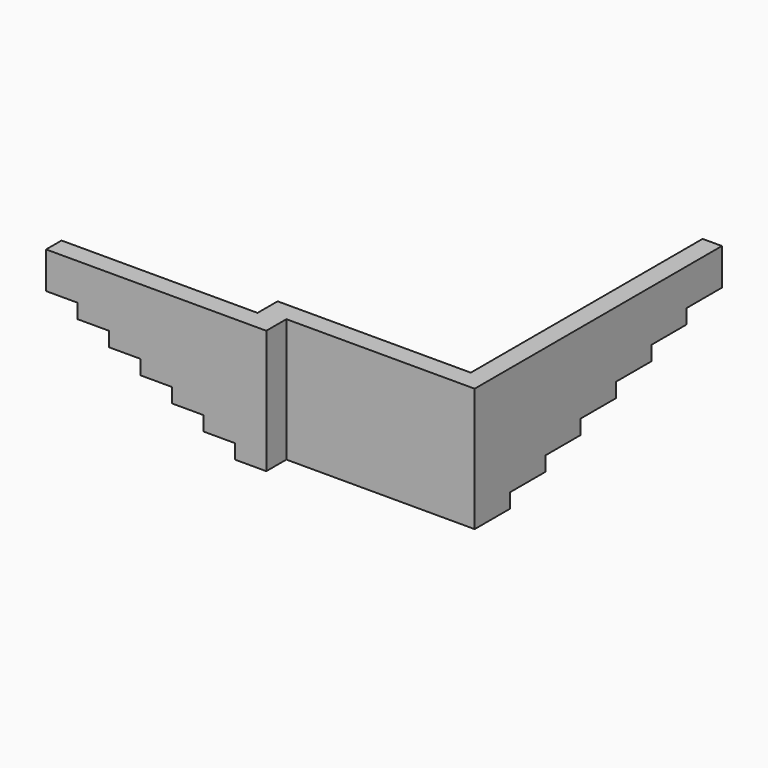
from build123d import *

# Parameters (mm, degrees)
F0_W     = 125.408068
F0_H     = 30
F0_W_2   = 100
F0_H_2   = 1500
F1_DEPTH = 640
F3_DEPTH = 1730.001
F5_DEPTH = 2114.592932


with BuildPart() as f1:
    # F0 (on Top) → F1 (new body)
    with BuildSketch(Plane.XY):
        Polygon((0, 100), (0, 0), (1140, 0), (1140, 100), (1014.591932, 100), align=None)
        with Locations((1077.295966, 115)):
            Rectangle(F0_W, F0_H)
        Polygon((1014.591932, 130), (1140, 130), (2114.591932, 130), (2114.591932, 230), (2014.591932, 230), (1014.591932, 230), align=None)
        with Locations((2064.591932, 980)):
            Rectangle(F0_W_2, F0_H_2)
    extrude(amount=F1_DEPTH)

    # F2 (on face) → F3 (cut, through all)
    with BuildSketch(Plane.XZ):
        Polygon((162.857143, 450), (0, 450), (0, 0), (977.142857, 0), (977.142857, 75), (814.285714, 75), (814.285714, 150), (651.428571, 150), (651.428571, 225), (488.571429, 225), (488.571429, 300), (325.714286, 300), (325.714286, 375), (162.857143, 375), align=None)
    extrude(amount=-F3_DEPTH, mode=Mode.SUBTRACT)

    # F4 (on face) → F5 (cut, through all)
    with BuildSketch(Plane.YZ.offset(2114.591932)):
        Polygon((1272.857143, 375), (1272.857143, 300), (1044.285714, 300), (1044.285714, 225), (815.714286, 225), (815.714286, 150), (587.142857, 150), (587.142857, 75), (358.571429, 75), (358.571429, 0), (1730, 0), (1730, 450), (1501.428571, 450), (1501.428571, 375), align=None)
    extrude(amount=-F5_DEPTH, mode=Mode.SUBTRACT)


solid = f1.part
